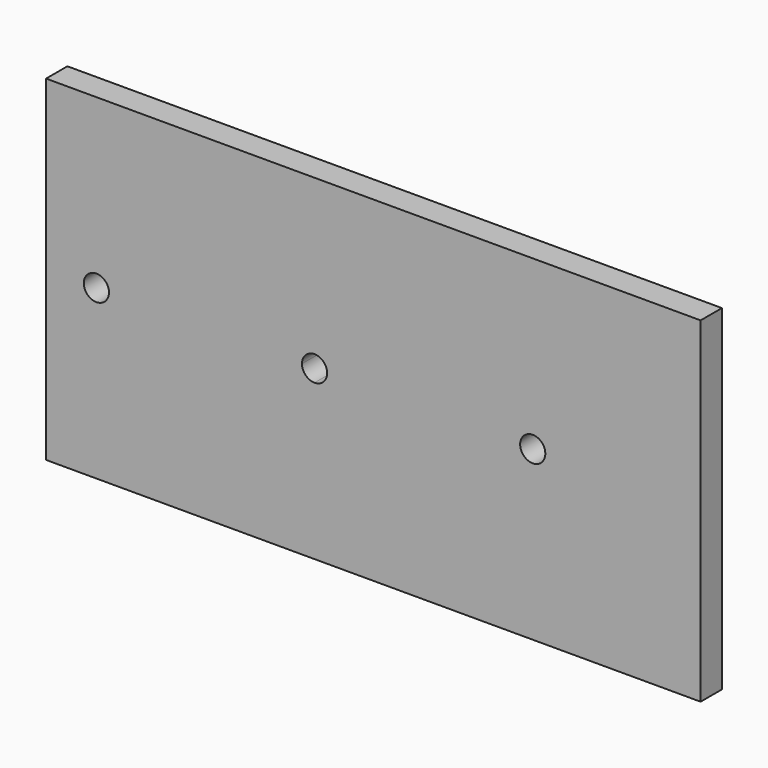
from build123d import *

# Parameters (mm, degrees)
F1_DEPTH = 3.175


with BuildPart() as f1:
    # F0 (on Front) → F1 (new body)
    with BuildSketch(Plane.XZ):
        Polygon((0, 20.0025), (0, 0), (77.9907, 0), (77.9907, 40.005), (0, 40.005), align=None)
        with BuildLine():
            ThreePointArc((7.4944, 20.0025), (5.9944, 18.5025), (4.4944, 20.0025))
            ThreePointArc((4.4944, 20.0025), (5.9944, 21.5025), (7.4944, 20.0025))
        make_face(mode=Mode.SUBTRACT)
        with BuildLine():
            ThreePointArc((31.9913, 18.5025), (30.93064, 18.94184), (30.4913, 20.0025))
            ThreePointArc((30.4913, 20.0025), (31.9913, 21.5025), (33.4913, 20.0025))
            ThreePointArc((33.4913, 20.0025), (33.05196, 18.94184), (31.9913, 18.5025))
        make_face(mode=Mode.SUBTRACT)
        with BuildLine():
            ThreePointArc((59.4882, 20.0025), (57.9882, 18.5025), (56.4882, 20.0025))
            ThreePointArc((56.4882, 20.0025), (57.9882, 21.5025), (59.4882, 20.0025))
        make_face(mode=Mode.SUBTRACT)
    extrude(amount=F1_DEPTH)


solid = f1.part
